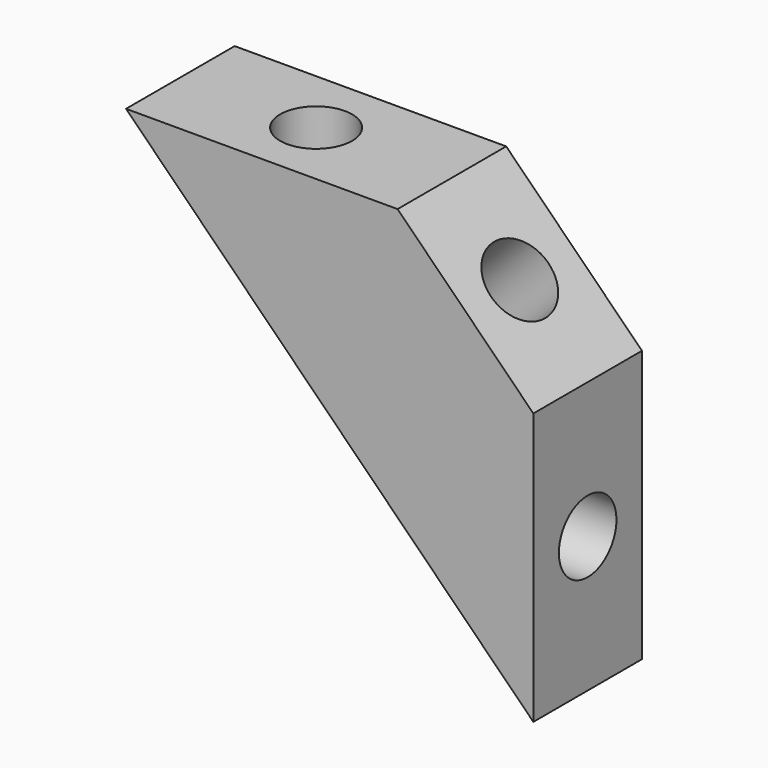
from build123d import *

# Parameters (mm, degrees)
PAD_DEPTH               = 5
SKETCH001_R             = 1.325
HOLE_DEPTH              = 15.0010000001
SKETCH002_R             = 1.325
HOLE001_DEPTH           = 17.6786695297
SKETCH003_R             = 1.325
HOLE002_DEPTH           = 15.001
BODY002_PLACEMENT_ANGLE = 180


with BuildPart() as part:
    # Sketch → Pad (new body)
    with BuildSketch(Plane.XZ.offset(-2.5)):
        Polygon((-10, 25.0000000001), (-19.9999999999, 25.0000000001), (-25, 20), (-25, 10), align=None)
    extrude(amount=PAD_DEPTH)

    # Sketch001 (on Face1 of Pad) → Hole (cut, through all)
    with BuildSketch(Plane(origin=(0, 0, 25.0000000001), x_dir=(-1, 0, 0), z_dir=(0, 0, 1))):
        with Locations((15, 0)):
            Circle(SKETCH001_R)
    extrude(amount=-HOLE_DEPTH, mode=Mode.SUBTRACT)

    # Sketch002 (on Face5 of Hole) → Hole001 (cut, through all)
    with BuildSketch(Plane(origin=(-22.5, 0, 22.5), x_dir=(-0.7071067812, 0, -0.7071067812), z_dir=(-0.7071067812, 0, 0.7071067812))):
        Circle(SKETCH002_R)
    extrude(amount=-HOLE001_DEPTH, mode=Mode.SUBTRACT)

    # Sketch003 (on Face7 of Hole001) → Hole002 (cut, through all)
    with BuildSketch(Plane(origin=(-25, 0, 0), x_dir=(0, 0, -1), z_dir=(-1, 0, 0))):
        with Locations((-15, 0)):
            Circle(SKETCH003_R)
    extrude(amount=-HOLE002_DEPTH, mode=Mode.SUBTRACT)


with BuildPart() as part_1:
    # Body002 placement: moved
    add(part.part.rotate(Axis((0, 0, 0), (0, 0, 1)), BODY002_PLACEMENT_ANGLE))


solid = part_1.part
